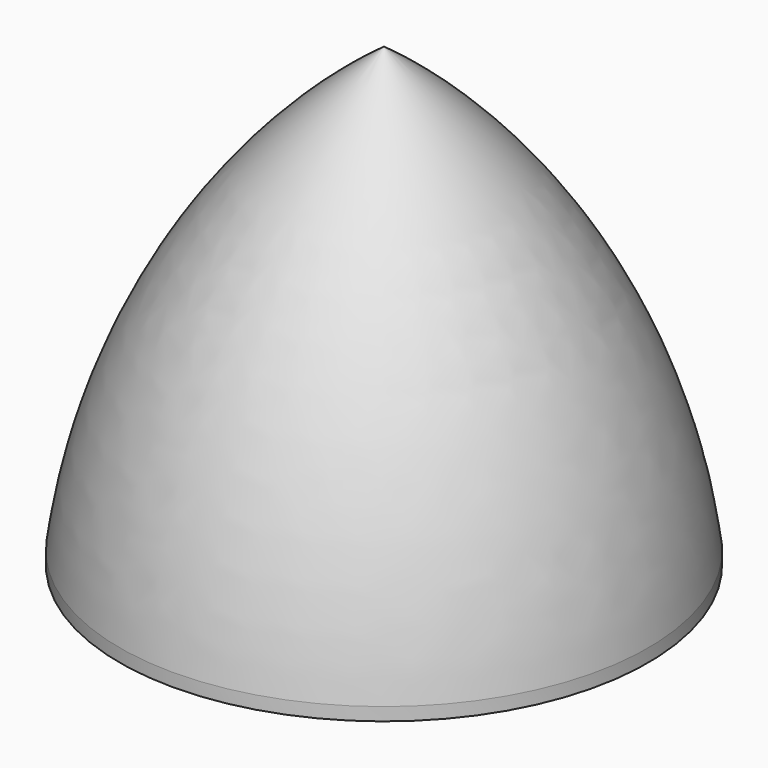
from build123d import *

# Parameters (mm, degrees)
F3_SCALE = 0.2365940186


with BuildPart() as f2:
    # F1 (on Right) → F2 (revolve)
    with BuildSketch(Plane.YZ):
        with BuildLine():
            Line((0, 6.8230149336), (0, 7.1768327616))
            ThreePointArc((0, 7.1768327616), (-2.7968918019, 4.1205632107), (-4.1506560519, 0.2051181946))
            Line((-4.1506560519, 0.2051181946), (-4.1506560519, 0))
            Line((-4.1506560519, 0), (-4.0024244227, 0))
            ThreePointArc((-4.0024244227, 0), (-2.7832236648, 3.8702404127), (0, 6.8230149336))
        make_face()
    revolve(axis=Axis((0, 0, 0), (0, 0, 1)))


with BuildPart() as f2_1:
    # F3: moved
    add(f2.part.scale(F3_SCALE))


solid = f2_1.part
